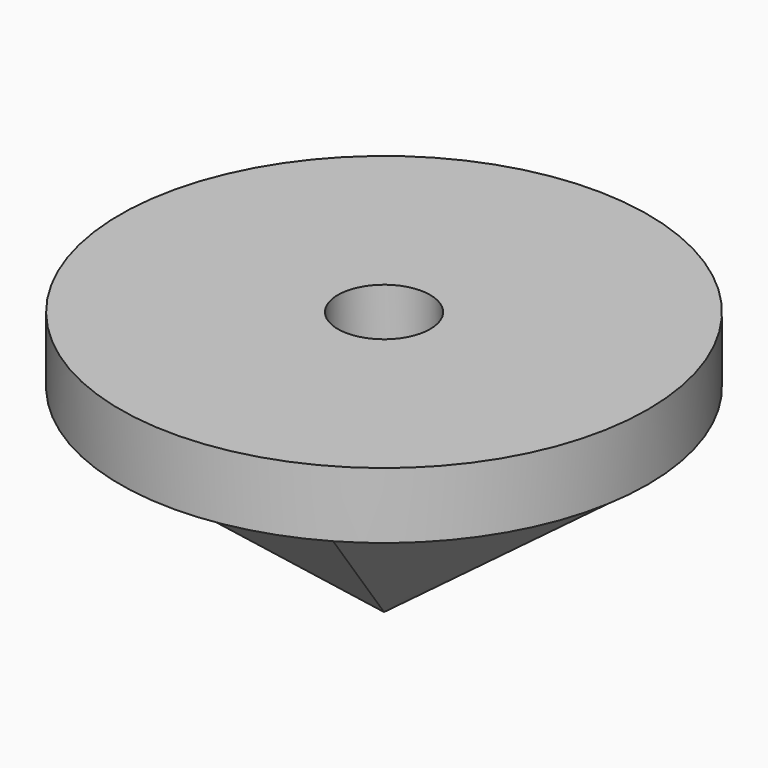
from build123d import *

# Parameters (mm, degrees)
F0_R     = 40
F1_DEPTH = 40
F2_R     = 40
F3_DEPTH = 30
F5_R     = 0.05
F7_R     = 7
F8_DEPTH = 10


with BuildPart() as f1:
    # F0 (on Top) → F1 (new body)
    with BuildSketch(Plane.XY):
        Circle(F0_R)
    extrude(amount=F1_DEPTH)

    # F2 (on Top) → F3 (cut)
    with BuildSketch(Plane.XY):
        Circle(F2_R)
    extrude(amount=F3_DEPTH, mode=Mode.SUBTRACT)

    # F4 (on face) → F6 section 0
    with BuildSketch(Plane(origin=(0, 0, 30), x_dir=(1, 0, 0), z_dir=(0, 0, -1))):
        Polygon((20, -34.641016), (40, 0), (20, 34.641016), (-20, 34.641016), (-40, 0), (-20, -34.641016), align=None)
    # F5 (on Top) → F6 section 1
    with BuildSketch(Plane.XY):
        Circle(F5_R)
    loft()

    # F7 (on face) → F8 (cut)
    with BuildSketch(Plane.XY.offset(40)):
        Circle(F7_R)
    extrude(amount=-F8_DEPTH, mode=Mode.SUBTRACT)


solid = f1.part
